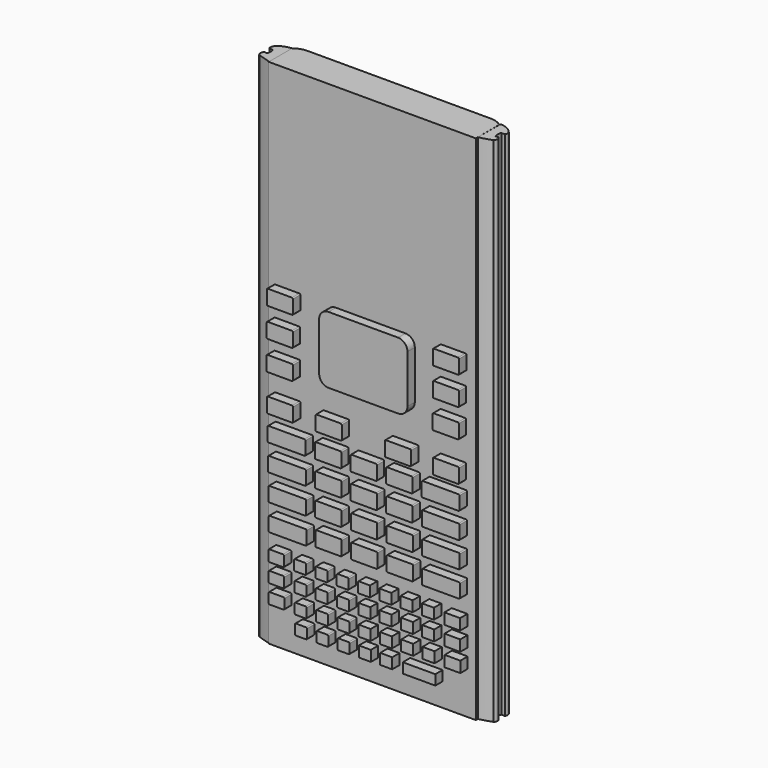
from build123d import *

# Parameters (mm, degrees)
F0_W      = 3.410544
F0_H      = 2.394639
F0_W_2    = 2.609793
F0_H_2    = 2.314016
F0_W_3    = 2.609794
F0_H_3    = 2.314017
F0_W_4    = 7.074404
F0_H_4    = 2.186633
F2_DEPTH  = 2.000001
F3_DEPTH  = 6.3754
F7_DEPTH  = 25.146
F5_W      = 45.082971
F5_H      = 2.184916
F8_DEPTH  = 111.506
F9_DEPTH  = 111.506
F11_W     = 25.982719
F11_H     = 0.617167
F12_DEPTH = 11.684


with BuildPart() as f2:
    # F0 (on Front) → F2 (new body)
    with BuildSketch(Plane.XZ):
        with BuildLine():
            Line((-30.788943, -13.219604), (-36.125213, -13.219604))
            ThreePointArc((-36.125213, -13.219604), (-36.268897, -13.27912), (-36.328413, -13.422804))
            Line((-36.328413, -13.422804), (-36.328413, -16.306476))
            ThreePointArc((-36.328413, -16.306476), (-36.268897, -16.45016), (-36.125213, -16.509676))
            Line((-36.125213, -16.509676), (-30.788943, -16.509676))
            ThreePointArc((-30.788943, -16.509676), (-30.645259, -16.45016), (-30.585743, -16.306476))
            Line((-30.585743, -16.306476), (-30.585743, -13.422804))
            ThreePointArc((-30.585743, -13.422804), (-30.645259, -13.27912), (-30.788943, -13.219604))
        make_face()
        with BuildLine():
            Line((-23.035531, -13.1064), (-28.3718, -13.1064))
            ThreePointArc((-28.3718, -13.1064), (-28.515484, -13.165916), (-28.575, -13.3096))
            Line((-28.575, -13.3096), (-28.575, -16.193272))
            ThreePointArc((-28.575, -16.193272), (-28.515484, -16.336956), (-28.3718, -16.396472))
            Line((-28.3718, -16.396472), (-23.035531, -16.396472))
            ThreePointArc((-23.035531, -16.396472), (-22.891847, -16.336956), (-22.832331, -16.193272))
            Line((-22.832331, -16.193272), (-22.832331, -13.3096))
            ThreePointArc((-22.832331, -13.3096), (-22.891847, -13.165916), (-23.035531, -13.1064))
        make_face()
        with BuildLine():
            Line((-15.282118, -12.993196), (-20.618387, -12.993196))
            ThreePointArc((-20.618387, -12.993196), (-20.762072, -13.052712), (-20.821587, -13.196396))
            Line((-20.821587, -13.196396), (-20.821587, -16.080068))
            ThreePointArc((-20.821587, -16.080068), (-20.762072, -16.223752), (-20.618387, -16.283268))
            Line((-20.618387, -16.283268), (-15.282118, -16.283268))
            ThreePointArc((-15.282118, -16.283268), (-15.138434, -16.223752), (-15.078918, -16.080068))
            Line((-15.078918, -16.080068), (-15.078918, -13.196396))
            ThreePointArc((-15.078918, -13.196396), (-15.138434, -13.052712), (-15.282118, -12.993196))
        make_face()
        with BuildLine():
            Line((-30.553643, -21.919785), (-30.553643, -19.036112))
            ThreePointArc((-30.553643, -19.036112), (-30.613159, -18.892428), (-30.756843, -18.832912))
            Line((-30.756843, -18.832912), (-36.093112, -18.832912))
            ThreePointArc((-36.093112, -18.832912), (-36.236796, -18.892428), (-36.296312, -19.036112))
            Line((-36.296312, -19.036112), (-36.296312, -21.919785))
            ThreePointArc((-36.296312, -21.919785), (-36.236796, -22.063469), (-36.093112, -22.122985))
            Line((-36.093112, -22.122985), (-30.756843, -22.122985))
            ThreePointArc((-30.756843, -22.122985), (-30.613159, -22.063469), (-30.553643, -21.919785))
        make_face()
        with BuildLine():
            Line((-30.521542, -27.533093), (-30.521542, -24.649421))
            ThreePointArc((-30.521542, -24.649421), (-30.581058, -24.505737), (-30.724742, -24.446221))
            Line((-30.724742, -24.446221), (-36.061011, -24.446221))
            ThreePointArc((-36.061011, -24.446221), (-36.204695, -24.505737), (-36.264211, -24.649421))
            Line((-36.264211, -24.649421), (-36.264211, -27.533093))
            ThreePointArc((-36.264211, -27.533093), (-36.204695, -27.676777), (-36.061011, -27.736293))
            Line((-36.061011, -27.736293), (-30.724742, -27.736293))
            ThreePointArc((-30.724742, -27.736293), (-30.581058, -27.676777), (-30.521542, -27.533093))
        make_face()
        with BuildLine():
            Line((-30.489441, -33.146401), (-30.489441, -30.262729))
            ThreePointArc((-30.489441, -30.262729), (-30.548957, -30.119045), (-30.692641, -30.059529))
            Line((-30.692641, -30.059529), (-36.02891, -30.059529))
            ThreePointArc((-36.02891, -30.059529), (-36.172595, -30.119045), (-36.23211, -30.262729))
            Line((-36.23211, -30.262729), (-36.23211, -33.146401))
            ThreePointArc((-36.23211, -33.146401), (-36.172595, -33.290085), (-36.02891, -33.349601))
            Line((-36.02891, -33.349601), (-30.692641, -33.349601))
            ThreePointArc((-30.692641, -33.349601), (-30.548957, -33.290085), (-30.489441, -33.146401))
        make_face()
        with BuildLine():
            ThreePointArc((-28.3464, -18.706328), (-28.490084, -18.765844), (-28.5496, -18.909528))
            Line((-28.5496, -18.909528), (-28.5496, -21.7932))
            ThreePointArc((-28.5496, -21.7932), (-28.490084, -21.936884), (-28.3464, -21.9964))
            Line((-28.3464, -21.9964), (-23.010131, -21.9964))
            ThreePointArc((-23.010131, -21.9964), (-22.866447, -21.936884), (-22.806931, -21.7932))
            Line((-22.806931, -21.7932), (-22.806931, -18.909528))
            ThreePointArc((-22.806931, -18.909528), (-22.866447, -18.765844), (-23.010131, -18.706328))
            Line((-23.010131, -18.706328), (-28.3464, -18.706328))
        make_face()
        with BuildLine():
            ThreePointArc((-20.599688, -18.579743), (-20.743372, -18.639259), (-20.802888, -18.782943))
            Line((-20.802888, -18.782943), (-20.802888, -21.666615))
            ThreePointArc((-20.802888, -21.666615), (-20.743372, -21.8103), (-20.599688, -21.869815))
            Line((-20.599688, -21.869815), (-15.263419, -21.869815))
            ThreePointArc((-15.263419, -21.869815), (-15.119735, -21.8103), (-15.060219, -21.666615))
            Line((-15.060219, -21.666615), (-15.060219, -18.782943))
            ThreePointArc((-15.060219, -18.782943), (-15.119735, -18.639259), (-15.263419, -18.579743))
            Line((-15.263419, -18.579743), (-20.599688, -18.579743))
        make_face()
        with BuildLine():
            Line((-22.756131, -27.4066), (-22.756131, -24.522928))
            ThreePointArc((-22.756131, -24.522928), (-22.815647, -24.379244), (-22.959331, -24.319728))
            Line((-22.959331, -24.319728), (-28.2956, -24.319728))
            ThreePointArc((-28.2956, -24.319728), (-28.439284, -24.379244), (-28.4988, -24.522928))
            Line((-28.4988, -24.522928), (-28.4988, -27.4066))
            ThreePointArc((-28.4988, -27.4066), (-28.439284, -27.550284), (-28.2956, -27.6098))
            Line((-28.2956, -27.6098), (-22.959331, -27.6098))
            ThreePointArc((-22.959331, -27.6098), (-22.815647, -27.550284), (-22.756131, -27.4066))
        make_face()
        with BuildLine():
            Line((-22.72403, -33.019908), (-22.72403, -30.136236))
            ThreePointArc((-22.72403, -30.136236), (-22.783546, -29.992552), (-22.92723, -29.933036))
            Line((-22.92723, -29.933036), (-28.263499, -29.933036))
            ThreePointArc((-28.263499, -29.933036), (-28.407183, -29.992552), (-28.466699, -30.136236))
            Line((-28.466699, -30.136236), (-28.466699, -33.019908))
            ThreePointArc((-28.466699, -33.019908), (-28.407183, -33.163592), (-28.263499, -33.223108))
            Line((-28.263499, -33.223108), (-22.92723, -33.223108))
            ThreePointArc((-22.92723, -33.223108), (-22.783546, -33.163592), (-22.72403, -33.019908))
        make_face()
        with BuildLine():
            Line((-14.99072, -27.280107), (-14.99072, -24.396435))
            ThreePointArc((-14.99072, -24.396435), (-15.050236, -24.252751), (-15.19392, -24.193235))
            Line((-15.19392, -24.193235), (-20.530189, -24.193235))
            ThreePointArc((-20.530189, -24.193235), (-20.673873, -24.252751), (-20.733389, -24.396435))
            Line((-20.733389, -24.396435), (-20.733389, -27.280107))
            ThreePointArc((-20.733389, -27.280107), (-20.673873, -27.423791), (-20.530189, -27.483307))
            Line((-20.530189, -27.483307), (-15.19392, -27.483307))
            ThreePointArc((-15.19392, -27.483307), (-15.050236, -27.423791), (-14.99072, -27.280107))
        make_face()
        with BuildLine():
            Line((-14.958619, -32.893415), (-14.958619, -30.009743))
            ThreePointArc((-14.958619, -30.009743), (-15.018135, -29.866059), (-15.161819, -29.806543))
            Line((-15.161819, -29.806543), (-20.498088, -29.806543))
            ThreePointArc((-20.498088, -29.806543), (-20.641772, -29.866059), (-20.701288, -30.009743))
            Line((-20.701288, -30.009743), (-20.701288, -32.893415))
            ThreePointArc((-20.701288, -32.893415), (-20.641772, -33.0371), (-20.498088, -33.096615))
            Line((-20.498088, -33.096615), (-15.161819, -33.096615))
            ThreePointArc((-15.161819, -33.096615), (-15.018135, -33.0371), (-14.958619, -32.893415))
        make_face()
        with BuildLine():
            Line((-38.589955, -13.458339), (-46.405907, -13.458339))
            ThreePointArc((-46.405907, -13.458339), (-46.549592, -13.517855), (-46.609107, -13.661539))
            Line((-46.609107, -13.661539), (-46.609107, -16.440494))
            ThreePointArc((-46.609107, -16.440494), (-46.549592, -16.584178), (-46.405907, -16.643694))
            Line((-46.405907, -16.643694), (-38.589955, -16.643694))
            ThreePointArc((-38.589955, -16.643694), (-38.446271, -16.584178), (-38.386755, -16.440494))
            Line((-38.386755, -16.440494), (-38.386755, -13.661539))
            ThreePointArc((-38.386755, -13.661539), (-38.446271, -13.517855), (-38.589955, -13.458339))
        make_face()
        with BuildLine():
            Line((-38.513647, -19.177), (-46.3296, -19.177))
            ThreePointArc((-46.3296, -19.177), (-46.473284, -19.236516), (-46.5328, -19.3802))
            Line((-46.5328, -19.3802), (-46.5328, -22.159154))
            ThreePointArc((-46.5328, -22.159154), (-46.473284, -22.302838), (-46.3296, -22.362354))
            Line((-46.3296, -22.362354), (-38.513647, -22.362354))
            ThreePointArc((-38.513647, -22.362354), (-38.369963, -22.302838), (-38.310447, -22.159154))
            Line((-38.310447, -22.159154), (-38.310447, -19.3802))
            ThreePointArc((-38.310447, -19.3802), (-38.369963, -19.236516), (-38.513647, -19.177))
        make_face()
        with BuildLine():
            Line((-38.43734, -24.895661), (-46.253293, -24.895661))
            ThreePointArc((-46.253293, -24.895661), (-46.396977, -24.955176), (-46.456493, -25.098861))
            Line((-46.456493, -25.098861), (-46.456493, -27.877815))
            ThreePointArc((-46.456493, -27.877815), (-46.396977, -28.021499), (-46.253293, -28.081015))
            Line((-46.253293, -28.081015), (-38.43734, -28.081015))
            ThreePointArc((-38.43734, -28.081015), (-38.293656, -28.021499), (-38.23414, -27.877815))
            Line((-38.23414, -27.877815), (-38.23414, -25.098861))
            ThreePointArc((-38.23414, -25.098861), (-38.293656, -24.955176), (-38.43734, -24.895661))
        make_face()
        with BuildLine():
            Line((-38.361032, -30.614321), (-46.176985, -30.614321))
            ThreePointArc((-46.176985, -30.614321), (-46.320669, -30.673837), (-46.380185, -30.817521))
            Line((-46.380185, -30.817521), (-46.380185, -33.596475))
            ThreePointArc((-46.380185, -33.596475), (-46.320669, -33.740159), (-46.176985, -33.799675))
            Line((-46.176985, -33.799675), (-38.361032, -33.799675))
            ThreePointArc((-38.361032, -33.799675), (-38.217348, -33.740159), (-38.157832, -33.596475))
            Line((-38.157832, -33.596475), (-38.157832, -30.817521))
            ThreePointArc((-38.157832, -30.817521), (-38.217348, -30.673837), (-38.361032, -30.614321))
        make_face()
        with BuildLine():
            Line((-5.061847, -13.1064), (-12.8778, -13.1064))
            ThreePointArc((-12.8778, -13.1064), (-13.021484, -13.165916), (-13.081, -13.3096))
            Line((-13.081, -13.3096), (-13.081, -16.088554))
            ThreePointArc((-13.081, -16.088554), (-13.021484, -16.232238), (-12.8778, -16.291754))
            Line((-12.8778, -16.291754), (-5.061847, -16.291754))
            ThreePointArc((-5.061847, -16.291754), (-4.918163, -16.232238), (-4.858647, -16.088554))
            Line((-4.858647, -16.088554), (-4.858647, -13.3096))
            ThreePointArc((-4.858647, -13.3096), (-4.918163, -13.165916), (-5.061847, -13.1064))
        make_face()
        with BuildLine():
            ThreePointArc((-12.8524, -18.709446), (-12.996084, -18.768962), (-13.0556, -18.912646))
            Line((-13.0556, -18.912646), (-13.0556, -21.6916))
            ThreePointArc((-13.0556, -21.6916), (-12.996084, -21.835284), (-12.8524, -21.8948))
            Line((-12.8524, -21.8948), (-5.036447, -21.8948))
            ThreePointArc((-5.036447, -21.8948), (-4.892763, -21.835284), (-4.833247, -21.6916))
            Line((-4.833247, -21.6916), (-4.833247, -18.912646))
            ThreePointArc((-4.833247, -18.912646), (-4.892763, -18.768962), (-5.036447, -18.709446))
            Line((-5.036447, -18.709446), (-12.8524, -18.709446))
        make_face()
        with BuildLine():
            ThreePointArc((-12.827, -24.312492), (-12.970684, -24.372008), (-13.0302, -24.515692))
            Line((-13.0302, -24.515692), (-13.0302, -27.294646))
            ThreePointArc((-13.0302, -27.294646), (-12.970684, -27.43833), (-12.827, -27.497846))
            Line((-12.827, -27.497846), (-5.011047, -27.497846))
            ThreePointArc((-5.011047, -27.497846), (-4.867363, -27.43833), (-4.807847, -27.294646))
            Line((-4.807847, -27.294646), (-4.807847, -24.515692))
            ThreePointArc((-4.807847, -24.515692), (-4.867363, -24.372008), (-5.011047, -24.312492))
            Line((-5.011047, -24.312492), (-12.827, -24.312492))
        make_face()
        with BuildLine():
            ThreePointArc((-12.8016, -29.915537), (-12.945284, -29.975053), (-13.0048, -30.118737))
            Line((-13.0048, -30.118737), (-13.0048, -32.897692))
            ThreePointArc((-13.0048, -32.897692), (-12.945284, -33.041376), (-12.8016, -33.100892))
            Line((-12.8016, -33.100892), (-4.985647, -33.100892))
            ThreePointArc((-4.985647, -33.100892), (-4.841963, -33.041376), (-4.782447, -32.897692))
            Line((-4.782447, -32.897692), (-4.782447, -30.118737))
            ThreePointArc((-4.782447, -30.118737), (-4.841963, -29.975053), (-4.985647, -29.915537))
            Line((-4.985647, -29.915537), (-12.8016, -29.915537))
        make_face()
        with BuildLine():
            Line((-41.300889, 12.784514), (-46.584494, 12.784514))
            ThreePointArc((-46.584494, 12.784514), (-46.728178, 12.724998), (-46.787694, 12.581314))
            Line((-46.787694, 12.581314), (-46.787694, 9.692147))
            ThreePointArc((-46.787694, 9.692147), (-46.728178, 9.548463), (-46.584494, 9.488947))
            Line((-46.584494, 9.488947), (-41.300889, 9.488947))
            ThreePointArc((-41.300889, 9.488947), (-41.157205, 9.548463), (-41.097689, 9.692147))
            Line((-41.097689, 9.692147), (-41.097689, 12.581314))
            ThreePointArc((-41.097689, 12.581314), (-41.157205, 12.724998), (-41.300889, 12.784514))
        make_face()
        with BuildLine():
            Line((-41.123362, 3.342199), (-41.123362, 6.231366))
            ThreePointArc((-41.123362, 6.231366), (-41.182878, 6.37505), (-41.326562, 6.434566))
            Line((-41.326562, 6.434566), (-46.610166, 6.434566))
            ThreePointArc((-46.610166, 6.434566), (-46.75385, 6.37505), (-46.813366, 6.231366))
            Line((-46.813366, 6.231366), (-46.813366, 3.342199))
            ThreePointArc((-46.813366, 3.342199), (-46.75385, 3.198515), (-46.610166, 3.138999))
            Line((-46.610166, 3.138999), (-41.326562, 3.138999))
            ThreePointArc((-41.326562, 3.138999), (-41.182878, 3.198515), (-41.123362, 3.342199))
        make_face()
        with BuildLine():
            Line((-41.149034, -3.007749), (-41.149034, -0.118583))
            ThreePointArc((-41.149034, -0.118583), (-41.20855, 0.025102), (-41.352234, 0.084617))
            Line((-41.352234, 0.084617), (-46.635839, 0.084617))
            ThreePointArc((-46.635839, 0.084617), (-46.779523, 0.025102), (-46.839039, -0.118583))
            Line((-46.839039, -0.118583), (-46.839039, -3.007749))
            ThreePointArc((-46.839039, -3.007749), (-46.779523, -3.151434), (-46.635839, -3.210949))
            Line((-46.635839, -3.210949), (-41.352234, -3.210949))
            ThreePointArc((-41.352234, -3.210949), (-41.20855, -3.151434), (-41.149034, -3.007749))
        make_face()
        with BuildLine():
            Line((-5.155795, 13.0556), (-10.4394, 13.0556))
            ThreePointArc((-10.4394, 13.0556), (-10.583084, 12.996084), (-10.6426, 12.8524))
            Line((-10.6426, 12.8524), (-10.6426, 9.963233))
            ThreePointArc((-10.6426, 9.963233), (-10.583084, 9.819549), (-10.4394, 9.760033))
            Line((-10.4394, 9.760033), (-5.155795, 9.760033))
            ThreePointArc((-5.155795, 9.760033), (-5.012111, 9.819549), (-4.952595, 9.963233))
            Line((-4.952595, 9.963233), (-4.952595, 12.8524))
            ThreePointArc((-4.952595, 12.8524), (-5.012111, 12.996084), (-5.155795, 13.0556))
        make_face()
        with BuildLine():
            ThreePointArc((-10.4648, 6.851567), (-10.608484, 6.792051), (-10.668, 6.648367))
            Line((-10.668, 6.648367), (-10.668, 3.7592))
            ThreePointArc((-10.668, 3.7592), (-10.608484, 3.615516), (-10.4648, 3.556))
            Line((-10.4648, 3.556), (-5.181195, 3.556))
            ThreePointArc((-5.181195, 3.556), (-5.037511, 3.615516), (-4.977995, 3.7592))
            Line((-4.977995, 3.7592), (-4.977995, 6.648367))
            ThreePointArc((-4.977995, 6.648367), (-5.037511, 6.792051), (-5.181195, 6.851567))
            Line((-5.181195, 6.851567), (-10.4648, 6.851567))
        make_face()
        with BuildLine():
            ThreePointArc((-10.4902, 0.647534), (-10.633884, 0.588018), (-10.6934, 0.444334))
            Line((-10.6934, 0.444334), (-10.6934, -2.444833))
            ThreePointArc((-10.6934, -2.444833), (-10.633884, -2.588517), (-10.4902, -2.648033))
            Line((-10.4902, -2.648033), (-5.206595, -2.648033))
            ThreePointArc((-5.206595, -2.648033), (-5.062911, -2.588517), (-5.003395, -2.444833))
            Line((-5.003395, -2.444833), (-5.003395, 0.444334))
            ThreePointArc((-5.003395, 0.444334), (-5.062911, 0.588018), (-5.206595, 0.647534))
            Line((-5.206595, 0.647534), (-10.4902, 0.647534))
        make_face()
        with BuildLine():
            Line((-5.181195, -7.874), (-10.4648, -7.874))
            ThreePointArc((-10.4648, -7.874), (-10.608484, -7.933516), (-10.668, -8.0772))
            Line((-10.668, -8.0772), (-10.668, -10.966367))
            ThreePointArc((-10.668, -10.966367), (-10.608484, -11.110051), (-10.4648, -11.169567))
            Line((-10.4648, -11.169567), (-5.181195, -11.169567))
            ThreePointArc((-5.181195, -11.169567), (-5.037511, -11.110051), (-4.977995, -10.966367))
            Line((-4.977995, -10.966367), (-4.977995, -8.0772))
            ThreePointArc((-4.977995, -8.0772), (-5.037511, -7.933516), (-5.181195, -7.874))
        make_face()
        with BuildLine():
            ThreePointArc((-20.8788, -7.880433), (-21.022484, -7.939949), (-21.082, -8.083633))
            Line((-21.082, -8.083633), (-21.082, -10.9728))
            ThreePointArc((-21.082, -10.9728), (-21.022484, -11.116484), (-20.8788, -11.176))
            Line((-20.8788, -11.176), (-15.595195, -11.176))
            ThreePointArc((-15.595195, -11.176), (-15.451511, -11.116484), (-15.391995, -10.9728))
            Line((-15.391995, -10.9728), (-15.391995, -8.083633))
            ThreePointArc((-15.391995, -8.083633), (-15.451511, -7.939949), (-15.595195, -7.880433))
            Line((-15.595195, -7.880433), (-20.8788, -7.880433))
        make_face()
        with BuildLine():
            Line((-41.249195, -7.874), (-46.5328, -7.874))
            ThreePointArc((-46.5328, -7.874), (-46.676484, -7.933516), (-46.736, -8.0772))
            Line((-46.736, -8.0772), (-46.736, -10.966367))
            ThreePointArc((-46.736, -10.966367), (-46.676484, -11.110051), (-46.5328, -11.169567))
            Line((-46.5328, -11.169567), (-41.249195, -11.169567))
            ThreePointArc((-41.249195, -11.169567), (-41.105511, -11.110051), (-41.045995, -10.966367))
            Line((-41.045995, -10.966367), (-41.045995, -8.0772))
            ThreePointArc((-41.045995, -8.0772), (-41.105511, -7.933516), (-41.249195, -7.874))
        make_face()
        with BuildLine():
            Line((-30.48, -10.9728), (-30.48, -8.083633))
            ThreePointArc((-30.48, -8.083633), (-30.539516, -7.939949), (-30.6832, -7.880433))
            Line((-30.6832, -7.880433), (-35.966805, -7.880433))
            ThreePointArc((-35.966805, -7.880433), (-36.110489, -7.939949), (-36.170005, -8.083633))
            Line((-36.170005, -8.083633), (-36.170005, -10.9728))
            ThreePointArc((-36.170005, -10.9728), (-36.110489, -11.116484), (-35.966805, -11.176))
            Line((-35.966805, -11.176), (-30.6832, -11.176))
            ThreePointArc((-30.6832, -11.176), (-30.539516, -11.116484), (-30.48, -10.9728))
        make_face()
        with BuildLine():
            Line((-23.528112, 12.634613), (-33.366499, 12.634613))
            ThreePointArc((-33.366499, 12.634613), (-34.80334, 12.039454), (-35.398499, 10.602613))
            Line((-35.398499, 10.602613), (-35.398499, 0.114992))
            ThreePointArc((-35.398499, 0.114992), (-34.80334, -1.321849), (-33.366499, -1.917008))
            Line((-33.366499, -1.917008), (-18.210939, -1.917008))
            ThreePointArc((-18.210939, -1.917008), (-16.774098, -1.321849), (-16.178939, 0.114992))
            Line((-16.178939, 0.114992), (-16.178939, 10.602613))
            ThreePointArc((-16.178939, 10.602613), (-16.774098, 12.039454), (-18.210939, 12.634613))
            Line((-18.210939, 12.634613), (-23.528112, 12.634613))
        make_face()
        with BuildLine():
            Line((-43.254141, -37.052601), (-46.258285, -37.052601))
            ThreePointArc((-46.258285, -37.052601), (-46.401969, -37.112117), (-46.461485, -37.255801))
            Line((-46.461485, -37.255801), (-46.461485, -39.310712))
            ThreePointArc((-46.461485, -39.310712), (-46.401969, -39.454396), (-46.258285, -39.513912))
            Line((-46.258285, -39.513912), (-43.254141, -39.513912))
            ThreePointArc((-43.254141, -39.513912), (-43.110457, -39.454396), (-43.050941, -39.310712))
            Line((-43.050941, -39.310712), (-43.050941, -37.255801))
            ThreePointArc((-43.050941, -37.255801), (-43.110457, -37.112117), (-43.254141, -37.052601))
        make_face()
        with BuildLine():
            Line((-43.223856, -41.1734), (-46.228, -41.1734))
            ThreePointArc((-46.228, -41.1734), (-46.371684, -41.232916), (-46.4312, -41.3766))
            Line((-46.4312, -41.3766), (-46.4312, -43.364839))
            ThreePointArc((-46.4312, -43.364839), (-46.371684, -43.508523), (-46.228, -43.568039))
            Line((-46.228, -43.568039), (-43.223856, -43.568039))
            ThreePointArc((-43.223856, -43.568039), (-43.080172, -43.508523), (-43.020656, -43.364839))
            Line((-43.020656, -43.364839), (-43.020656, -41.3766))
            ThreePointArc((-43.020656, -41.3766), (-43.080172, -41.232916), (-43.223856, -41.1734))
        make_face()
        with BuildLine():
            Line((-43.19357, -45.227527), (-46.197715, -45.227527))
            ThreePointArc((-46.197715, -45.227527), (-46.341399, -45.287043), (-46.400915, -45.430727))
            Line((-46.400915, -45.430727), (-46.400915, -47.418966))
            ThreePointArc((-46.400915, -47.418966), (-46.341399, -47.56265), (-46.197715, -47.622166))
            Line((-46.197715, -47.622166), (-43.19357, -47.622166))
            ThreePointArc((-43.19357, -47.622166), (-43.049886, -47.56265), (-42.99037, -47.418966))
            Line((-42.99037, -47.418966), (-42.99037, -45.430727))
            ThreePointArc((-42.99037, -45.430727), (-43.049886, -45.287043), (-43.19357, -45.227527))
        make_face()
        with Locations((-6.429672, -37.94408)):
            Rectangle(F0_W, F0_H)
        with Locations((-6.397328, -42.00808)):
            Rectangle(F0_W, F0_H)
        with Locations((-6.364984, -46.07208)):
            Rectangle(F0_W, F0_H)
        with BuildLine():
            Line((-38.452596, -37.120141), (-40.655989, -37.120141))
            ThreePointArc((-40.655989, -37.120141), (-40.799673, -37.179657), (-40.859189, -37.323341))
            Line((-40.859189, -37.323341), (-40.859189, -39.230957))
            ThreePointArc((-40.859189, -39.230957), (-40.799673, -39.374641), (-40.655989, -39.434157))
            Line((-40.655989, -39.434157), (-38.452596, -39.434157))
            ThreePointArc((-38.452596, -39.434157), (-38.308912, -39.374641), (-38.249396, -39.230957))
            Line((-38.249396, -39.230957), (-38.249396, -37.323341))
            ThreePointArc((-38.249396, -37.323341), (-38.308912, -37.179657), (-38.452596, -37.120141))
        make_face()
        with BuildLine():
            Line((-33.813807, -37.0332), (-36.0172, -37.0332))
            ThreePointArc((-36.0172, -37.0332), (-36.160884, -37.092716), (-36.2204, -37.2364))
            Line((-36.2204, -37.2364), (-36.2204, -39.144016))
            ThreePointArc((-36.2204, -39.144016), (-36.160884, -39.2877), (-36.0172, -39.347216))
            Line((-36.0172, -39.347216), (-33.813807, -39.347216))
            ThreePointArc((-33.813807, -39.347216), (-33.670123, -39.2877), (-33.610607, -39.144016))
            Line((-33.610607, -39.144016), (-33.610607, -37.2364))
            ThreePointArc((-33.610607, -37.2364), (-33.670123, -37.092716), (-33.813807, -37.0332))
        make_face()
        with BuildLine():
            Line((-29.175018, -36.946259), (-31.378411, -36.946259))
            ThreePointArc((-31.378411, -36.946259), (-31.522095, -37.005775), (-31.581611, -37.149459))
            Line((-31.581611, -37.149459), (-31.581611, -39.057075))
            ThreePointArc((-31.581611, -39.057075), (-31.522095, -39.200759), (-31.378411, -39.260275))
            Line((-31.378411, -39.260275), (-29.175018, -39.260275))
            ThreePointArc((-29.175018, -39.260275), (-29.031334, -39.200759), (-28.971818, -39.057075))
            Line((-28.971818, -39.057075), (-28.971818, -37.149459))
            ThreePointArc((-28.971818, -37.149459), (-29.031334, -37.005775), (-29.175018, -36.946259))
        make_face()
        with BuildLine():
            Line((-24.333029, -36.859318), (-26.739622, -36.859318))
            ThreePointArc((-26.739622, -36.859318), (-26.883306, -36.918834), (-26.942822, -37.062518))
            Line((-26.942822, -37.062518), (-26.942822, -39.173334))
            Line((-26.942822, -39.173334), (-24.333029, -39.173334))
            Line((-24.333029, -39.173334), (-24.333029, -36.859318))
        make_face()
        with Locations((-20.999136, -37.929385)):
            Rectangle(F0_W_2, F0_H_2)
        with Locations((-16.360347, -37.842444)):
            Rectangle(F0_W_2, F0_H_2)
        with Locations((-11.721559, -37.755503)):
            Rectangle(F0_W_3, F0_H_2)
        with BuildLine():
            ThreePointArc((-40.5892, -41.272384), (-40.732884, -41.3319), (-40.7924, -41.475584))
            Line((-40.7924, -41.475584), (-40.7924, -43.3832))
            ThreePointArc((-40.7924, -43.3832), (-40.732884, -43.526884), (-40.5892, -43.5864))
            Line((-40.5892, -43.5864), (-38.385807, -43.5864))
            ThreePointArc((-38.385807, -43.5864), (-38.242123, -43.526884), (-38.182607, -43.3832))
            Line((-38.182607, -43.3832), (-38.182607, -41.475584))
            ThreePointArc((-38.182607, -41.475584), (-38.242123, -41.3319), (-38.385807, -41.272384))
            Line((-38.385807, -41.272384), (-40.5892, -41.272384))
        make_face()
        with BuildLine():
            ThreePointArc((-35.950411, -41.185443), (-36.094095, -41.244959), (-36.153611, -41.388643))
            Line((-36.153611, -41.388643), (-36.153611, -43.296259))
            ThreePointArc((-36.153611, -43.296259), (-36.094095, -43.439943), (-35.950411, -43.499459))
            Line((-35.950411, -43.499459), (-33.747018, -43.499459))
            ThreePointArc((-33.747018, -43.499459), (-33.603334, -43.439943), (-33.543818, -43.296259))
            Line((-33.543818, -43.296259), (-33.543818, -41.388643))
            ThreePointArc((-33.543818, -41.388643), (-33.603334, -41.244959), (-33.747018, -41.185443))
            Line((-33.747018, -41.185443), (-35.950411, -41.185443))
        make_face()
        with BuildLine():
            ThreePointArc((-31.311622, -41.098502), (-31.455306, -41.158018), (-31.514822, -41.301702))
            Line((-31.514822, -41.301702), (-31.514822, -43.209318))
            ThreePointArc((-31.514822, -43.209318), (-31.455306, -43.353002), (-31.311622, -43.412518))
            Line((-31.311622, -43.412518), (-29.108229, -43.412518))
            ThreePointArc((-29.108229, -43.412518), (-28.964545, -43.353002), (-28.905029, -43.209318))
            Line((-28.905029, -43.209318), (-28.905029, -41.301702))
            ThreePointArc((-28.905029, -41.301702), (-28.964545, -41.158018), (-29.108229, -41.098502))
            Line((-29.108229, -41.098502), (-31.311622, -41.098502))
        make_face()
        with Locations((-25.571137, -42.168569)):
            Rectangle(F0_W_2, F0_H_2)
        with Locations((-20.932347, -42.081627)):
            Rectangle(F0_W_2, F0_H_3)
        with Locations((-16.293559, -41.994687)):
            Rectangle(F0_W_3, F0_H_3)
        with Locations((-11.65477, -41.907745)):
            Rectangle(F0_W_2, F0_H_2)
        with BuildLine():
            ThreePointArc((-40.522411, -45.424626), (-40.666095, -45.484142), (-40.725611, -45.627826))
            Line((-40.725611, -45.627826), (-40.725611, -47.535443))
            ThreePointArc((-40.725611, -47.535443), (-40.666095, -47.679127), (-40.522411, -47.738643))
            Line((-40.522411, -47.738643), (-38.319018, -47.738643))
            ThreePointArc((-38.319018, -47.738643), (-38.175334, -47.679127), (-38.115818, -47.535443))
            Line((-38.115818, -47.535443), (-38.115818, -45.627826))
            ThreePointArc((-38.115818, -45.627826), (-38.175334, -45.484142), (-38.319018, -45.424626))
            Line((-38.319018, -45.424626), (-40.522411, -45.424626))
        make_face()
        with BuildLine():
            ThreePointArc((-35.883622, -45.337685), (-36.027306, -45.397201), (-36.086822, -45.540885))
            Line((-36.086822, -45.540885), (-36.086822, -47.448502))
            ThreePointArc((-36.086822, -47.448502), (-36.027306, -47.592186), (-35.883622, -47.651702))
            Line((-35.883622, -47.651702), (-33.680229, -47.651702))
            ThreePointArc((-33.680229, -47.651702), (-33.536545, -47.592186), (-33.477029, -47.448502))
            Line((-33.477029, -47.448502), (-33.477029, -45.540885))
            ThreePointArc((-33.477029, -45.540885), (-33.536545, -45.397201), (-33.680229, -45.337685))
            Line((-33.680229, -45.337685), (-35.883622, -45.337685))
        make_face()
        with BuildLine():
            ThreePointArc((-31.244833, -45.250744), (-31.388517, -45.31026), (-31.448033, -45.453944))
            Line((-31.448033, -45.453944), (-31.448033, -47.361561))
            ThreePointArc((-31.448033, -47.361561), (-31.388517, -47.505245), (-31.244833, -47.564761))
            Line((-31.244833, -47.564761), (-29.04144, -47.564761))
            ThreePointArc((-29.04144, -47.564761), (-28.897756, -47.505245), (-28.83824, -47.361561))
            Line((-28.83824, -47.361561), (-28.83824, -45.453944))
            ThreePointArc((-28.83824, -45.453944), (-28.897756, -45.31026), (-29.04144, -45.250744))
            Line((-29.04144, -45.250744), (-31.244833, -45.250744))
        make_face()
        with Locations((-25.504348, -46.320811)):
            Rectangle(F0_W_2, F0_H_2)
        with Locations((-20.865559, -46.23387)):
            Rectangle(F0_W_3, F0_H_2)
        with Locations((-16.226771, -46.146929)):
            Rectangle(F0_W_2, F0_H_2)
        with Locations((-11.587981, -46.059988)):
            Rectangle(F0_W_2, F0_H_2)
        with BuildLine():
            Line((-38.258807, -49.403), (-40.4622, -49.403))
            ThreePointArc((-40.4622, -49.403), (-40.605884, -49.462516), (-40.6654, -49.6062))
            Line((-40.6654, -49.6062), (-40.6654, -51.513816))
            ThreePointArc((-40.6654, -51.513816), (-40.605884, -51.6575), (-40.4622, -51.717016))
            Line((-40.4622, -51.717016), (-38.258807, -51.717016))
            ThreePointArc((-38.258807, -51.717016), (-38.115123, -51.6575), (-38.055607, -51.513816))
            Line((-38.055607, -51.513816), (-38.055607, -49.6062))
            ThreePointArc((-38.055607, -49.6062), (-38.115123, -49.462516), (-38.258807, -49.403))
        make_face()
        with BuildLine():
            ThreePointArc((-35.823411, -49.316059), (-35.967095, -49.375575), (-36.026611, -49.519259))
            Line((-36.026611, -49.519259), (-36.026611, -51.426875))
            ThreePointArc((-36.026611, -51.426875), (-35.967095, -51.570559), (-35.823411, -51.630075))
            Line((-35.823411, -51.630075), (-33.620018, -51.630075))
            ThreePointArc((-33.620018, -51.630075), (-33.476334, -51.570559), (-33.416818, -51.426875))
            Line((-33.416818, -51.426875), (-33.416818, -49.519259))
            ThreePointArc((-33.416818, -49.519259), (-33.476334, -49.375575), (-33.620018, -49.316059))
            Line((-33.620018, -49.316059), (-35.823411, -49.316059))
        make_face()
        with BuildLine():
            ThreePointArc((-31.184622, -49.229118), (-31.328306, -49.288634), (-31.387822, -49.432318))
            Line((-31.387822, -49.432318), (-31.387822, -51.339934))
            ThreePointArc((-31.387822, -51.339934), (-31.328306, -51.483618), (-31.184622, -51.543134))
            Line((-31.184622, -51.543134), (-28.981229, -51.543134))
            ThreePointArc((-28.981229, -51.543134), (-28.837545, -51.483618), (-28.778029, -51.339934))
            Line((-28.778029, -51.339934), (-28.778029, -49.432318))
            ThreePointArc((-28.778029, -49.432318), (-28.837545, -49.288634), (-28.981229, -49.229118))
            Line((-28.981229, -49.229118), (-31.184622, -49.229118))
        make_face()
        with Locations((-25.444136, -50.299185)):
            Rectangle(F0_W_2, F0_H_2)
        with Locations((-20.805347, -50.212244)):
            Rectangle(F0_W_2, F0_H_2)
        with Locations((-13.651395, -50.33962)):
            Rectangle(F0_W_4, F0_H_4)
    extrude(amount=F2_DEPTH)


with BuildPart() as f3:
    # F1 (on Front) → F3 (new body)
    with BuildSketch(Plane.XZ):
        with BuildLine():
            Line((-2.896323, 54.997839), (-48.055965, 54.997839))
            Line((-48.055965, 54.997839), (-48.055965, -49.970686))
            ThreePointArc((-48.055965, -49.970686), (-46.196094, -54.460814), (-41.705965, -56.320686))
            Line((-41.705965, -56.320686), (-9.246323, -56.320686))
            ThreePointArc((-9.246323, -56.320686), (-4.756195, -54.460814), (-2.896323, -49.970686))
            Line((-2.896323, -49.970686), (-2.896323, 54.997839))
        make_face()
    extrude(amount=-F3_DEPTH)

    # F4 (on face) → F7 (cut)
    with BuildSketch(Plane.XY.offset(54.997839)):
        with BuildLine():
            ThreePointArc((-42.400431, 4.403647), (-42.370238, 4.475307), (-42.298216, 4.504629))
            Line((-42.298216, 4.504629), (-42.241228, 4.504283))
            Line((-42.241228, 4.504283), (-42.240265, 4.662867))
            ThreePointArc((-42.240265, 4.662867), (-42.503104, 4.530948), (-42.61442, 4.258743))
            Line((-42.61442, 4.258743), (-42.401319, 4.257449))
            Line((-42.401319, 4.257449), (-42.400431, 4.403647))
        make_face()
        Polygon((-42.240265, 4.662867), (-42.241228, 4.504283), (-34.49523, 4.457256), (-34.493755, 4.700091), (-34.492281, 4.942926), (-42.238279, 4.989953), align=None)
        with BuildLine():
            Line((-34.493755, 4.700091), (-34.49523, 4.457256))
            ThreePointArc((-34.49523, 4.457256), (-34.423569, 4.427062), (-34.394248, 4.355041))
            Line((-34.394248, 4.355041), (-34.395136, 4.208843))
            Line((-34.395136, 4.208843), (-34.065569, 4.206842))
            ThreePointArc((-34.065569, 4.206842), (-34.174067, 4.545133), (-34.493755, 4.700091))
        make_face()
        Polygon((-42.407096, 3.305925), (-42.401319, 4.257449), (-42.61442, 4.258743), (-42.827521, 4.260037), (-42.833298, 3.308513), (-42.620197, 3.307219), align=None)
        with BuildLine():
            Line((-42.407381, 3.258848), (-42.407096, 3.305925))
            Line((-42.407096, 3.305925), (-42.620197, 3.307219))
            ThreePointArc((-42.620197, 3.307219), (-42.466283, 3.058192), (-42.251213, 2.859576))
            Line((-42.251213, 2.859576), (-42.249412, 3.156287))
            Line((-42.249412, 3.156287), (-42.3064, 3.156633))
            ThreePointArc((-42.3064, 3.156633), (-42.37806, 3.186826), (-42.407381, 3.258848))
        make_face()
        Polygon((-34.065569, 4.206842), (-34.395136, 4.208843), (-34.400913, 3.257319), (-34.166747, 3.255897), (-33.932581, 3.254475), (-33.926805, 4.206), align=None)
        with BuildLine():
            Line((-34.166747, 3.255897), (-34.400913, 3.257319))
            Line((-34.400913, 3.257319), (-34.401198, 3.210241))
            ThreePointArc((-34.401198, 3.210241), (-34.431392, 3.138581), (-34.503413, 3.10926))
            Line((-34.503413, 3.10926), (-34.504767, 2.886246))
            ThreePointArc((-34.504767, 2.886246), (-34.293242, 3.032194), (-34.166747, 3.255897))
        make_face()
        Polygon((-42.249412, 3.156287), (-42.251213, 2.859576), (-42.25212, 2.71026), (-34.506121, 2.663233), (-34.504767, 2.886246), (-34.503413, 3.10926), align=None)
        with BuildLine():
            Line((-15.031894, 5.499099), (-15.031894, 4.184874))
            Line((-15.031894, 4.184874), (-10.714862, 4.184874))
            Line((-10.714862, 4.184874), (-10.714862, 5.499099))
            ThreePointArc((-10.714862, 5.499099), (-11.037587, 5.948803), (-11.503397, 6.24781))
            Line((-11.503397, 6.24781), (-14.330974, 6.24781))
            ThreePointArc((-14.330974, 6.24781), (-14.770298, 5.956646), (-15.031894, 5.499099))
        make_face()
    extrude(amount=-F7_DEPTH, mode=Mode.SUBTRACT)

    # F6 (on face) → F9 (join)
    with BuildSketch(Plane.XY.offset(54.997839)):
        with BuildLine():
            Line((-48.059549, 0.157894), (-48.022117, 6.334664))
            ThreePointArc((-48.022117, 6.334664), (-49.555809, 6.012171), (-50.829738, 5.09931))
            ThreePointArc((-50.829738, 5.09931), (-51.130451, 4.523278), (-50.942045, 3.901391))
            Line((-50.942045, 3.901391), (-50.174627, 3.901391))
            ThreePointArc((-50.174627, 3.901391), (-50.039554, 3.122876), (-50.193343, 2.34784))
            Line((-50.193343, 2.34784), (-50.829738, 2.34784))
            ThreePointArc((-50.829738, 2.34784), (-51.130963, 1.67401), (-50.829738, 1.000181))
            ThreePointArc((-50.829738, 1.000181), (-49.457228, 0.53765), (-48.059549, 0.157894))
        make_face()
        with BuildLine():
            Line((-2.875778, 6.703414), (-2.875777, 6.703694))
            ThreePointArc((-2.875777, 6.703694), (-2.887316, 6.703676), (-2.898854, 6.703624))
            ThreePointArc((-2.898854, 6.703624), (-2.887316, 6.703536), (-2.875778, 6.703414))
        make_face()
        with BuildLine():
            ThreePointArc((-0.114309, 5.46834), (-1.367145, 6.371842), (-2.875778, 6.703414))
            Line((-2.875778, 6.703414), (-2.884499, 0.526924))
            ThreePointArc((-2.884499, 0.526924), (-1.48682, 0.90668), (-0.114309, 1.36921))
            ThreePointArc((-0.114309, 1.36921), (0.186916, 2.04304), (-0.114309, 2.716869))
            Line((-0.114309, 2.716869), (-0.750704, 2.716869))
            ThreePointArc((-0.750704, 2.716869), (-0.904494, 3.491905), (-0.76942, 4.270421))
            Line((-0.76942, 4.270421), (-0.002003, 4.270421))
            ThreePointArc((-0.002003, 4.270421), (0.186404, 4.892308), (-0.114309, 5.46834))
        make_face()
    extrude(amount=-F9_DEPTH)


with BuildPart() as f8:
    # F5 (on face) → F8 (new body)
    with BuildSketch(Plane.XY.offset(54.997839)):
        with Locations((-25.44034, 1.092458)):
            Rectangle(F5_W, F5_H)
        with BuildLine():
            Line((-47.981825, 6.355113), (-47.981825, 2.184916))
            Line((-47.981825, 2.184916), (-2.898854, 2.184916))
            Line((-2.898854, 2.184916), (-2.898854, 6.399898))
            ThreePointArc((-2.898854, 6.399898), (-4.117765, 7.056754), (-5.483646, 7.283851))
            Line((-5.483646, 7.283851), (-45.332521, 7.283851))
            ThreePointArc((-45.332521, 7.283851), (-46.736209, 7.044941), (-47.981825, 6.355113))
        make_face()
    extrude(amount=-F8_DEPTH)

    # F11 (on face) → F12 (cut)
    with BuildSketch(Plane(origin=(0, 0, -56.508161), x_dir=(1, 0, 0), z_dir=(0, 0, -1))):
        with Locations((-25.391436, -7.002783)):
            Rectangle(F11_W, F11_H)
    extrude(amount=-F12_DEPTH, mode=Mode.SUBTRACT)


solid = Compound([f2.part, f3.part, f8.part])
